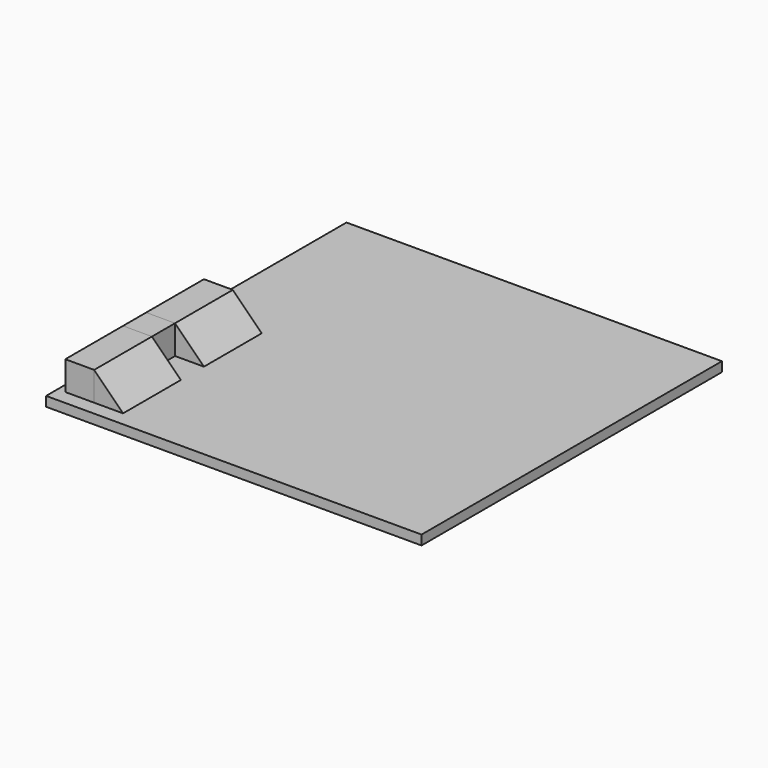
from build123d import *

# Parameters (mm, degrees)
F0_W     = 1981.2
F0_H     = 1981.2
F1_DEPTH = 50.8
F4_DEPTH = 381
F5_DEPTH = 152.4
F6_W     = 152.4
F6_H     = 152.4
F7_DEPTH = 152.4


with BuildPart() as f1:
    # F0 (on Top) → F1 (new body)
    with BuildSketch(Plane.XY):
        with Locations((10.2491267025, 354.7203272981)):
            Rectangle(F0_W, F0_H)
    extrude(amount=-F1_DEPTH)


with BuildPart() as f4:
    # F3 (on offset) → F4 (new body)
    with BuildSketch(Plane.XZ.offset(559.6796727019)):
        Polygon((-787.6153275423, 152.4), (-787.6153275423, 0), (-635.2153275423, 0), align=None)
    extrude(amount=-F4_DEPTH)


with BuildPart() as f5:
    # F5 (new): a face of the model
    f5_faces = [f4.part.faces().sort_by_distance(p)[0] for p in [
        (-787.6153275423, -369.1796727019, 76.2),
    ]]
    extrude(f5_faces, amount=F5_DEPTH)


with BuildPart() as f7:
    # F6 (on face) → F7 (new body)
    with BuildSketch(Plane(origin=(0, -178.6796727019, 0), x_dir=(-1, 0, 0), z_dir=(0, 1, 0))):
        with Locations((863.8153275423, 76.2)):
            Rectangle(F6_W, F6_H)
    extrude(amount=F7_DEPTH)


with BuildPart() as f8_1:
    # F8: copy of F4
    add(f4.part.moved(Location((0, 533.4, 0))))


with BuildPart() as f9_1:
    # F9: copy of F5
    add(f5.part.moved(Location((0, 533.4, 0))))


solid = Compound([f1.part, f4.part, f5.part, f7.part, f8_1.part, f9_1.part])
